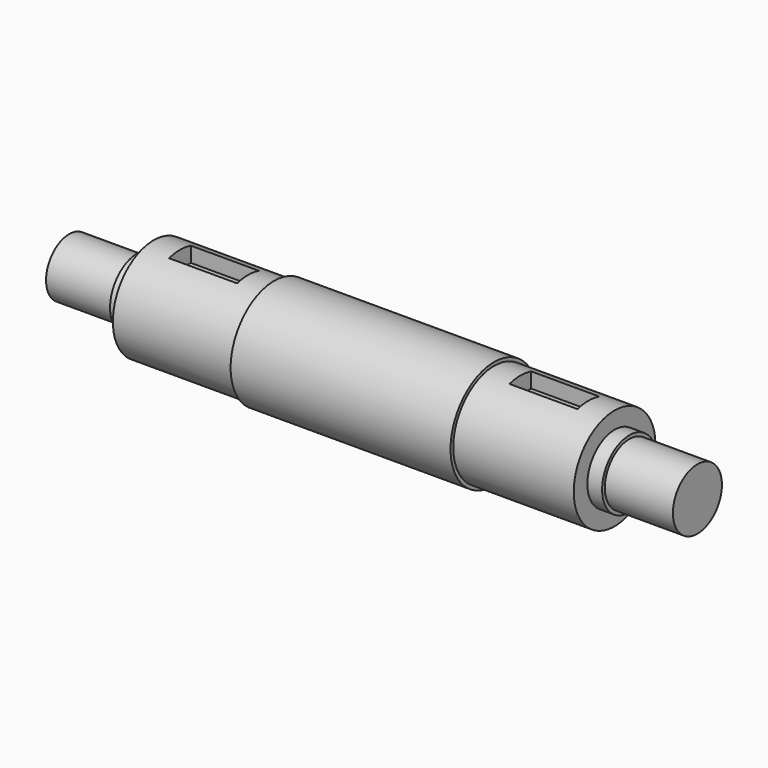
from build123d import *

# Parameters (mm, degrees)
F0_R      = 8.5
F1_DEPTH  = 20
F2_R      = 10
F3_DEPTH  = 4.83
F4_R      = 15
F5_DEPTH  = 35.4
F6_R      = 16
F7_DEPTH  = 64.6
F8_R      = 15
F9_DEPTH  = 35.4
F10_R     = 10
F11_DEPTH = 4.33
F12_R     = 9
F13_DEPTH = 20
F15_W     = 20
F15_H     = 4
F16_DEPTH = 5


with BuildPart() as f1:
    # F0 (on Right) → F1 (new body)
    with BuildSketch(Plane.YZ):
        Circle(F0_R)
    extrude(amount=F1_DEPTH)

    # F2 (on face) → F3 (join)
    with BuildSketch(Plane.YZ.offset(20)):
        Circle(F2_R)
    extrude(amount=F3_DEPTH)

    # F4 (on face) → F5 (join)
    with BuildSketch(Plane.YZ.offset(24.83)):
        Circle(F4_R)
    extrude(amount=F5_DEPTH)

    # F6 (on face) → F7 (join)
    with BuildSketch(Plane.YZ.offset(60.23)):
        Circle(F6_R)
    extrude(amount=F7_DEPTH)

    # F8 (on face) → F9 (join)
    with BuildSketch(Plane.YZ.offset(124.83)):
        Circle(F8_R)
    extrude(amount=F9_DEPTH)

    # F10 (on face) → F11 (join)
    with BuildSketch(Plane.YZ.offset(160.23)):
        Circle(F10_R)
    extrude(amount=F11_DEPTH)

    # F12 (on face) → F13 (join)
    with BuildSketch(Plane.YZ.offset(164.56)):
        Circle(F12_R)
    extrude(amount=F13_DEPTH)

    # F15 (on offset) → F16 (cut)
    with BuildSketch(Plane.XY.offset(15)):
        with Locations((42.53, 2)):
            Rectangle(F15_W, F15_H)
        with Locations((42.53, -2)):
            Rectangle(F15_W, F15_H)
        with Locations((142.53, 2)):
            Rectangle(F15_W, F15_H)
        with Locations((142.53, -2)):
            Rectangle(F15_W, F15_H)
    extrude(amount=-F16_DEPTH, mode=Mode.SUBTRACT)


solid = f1.part
